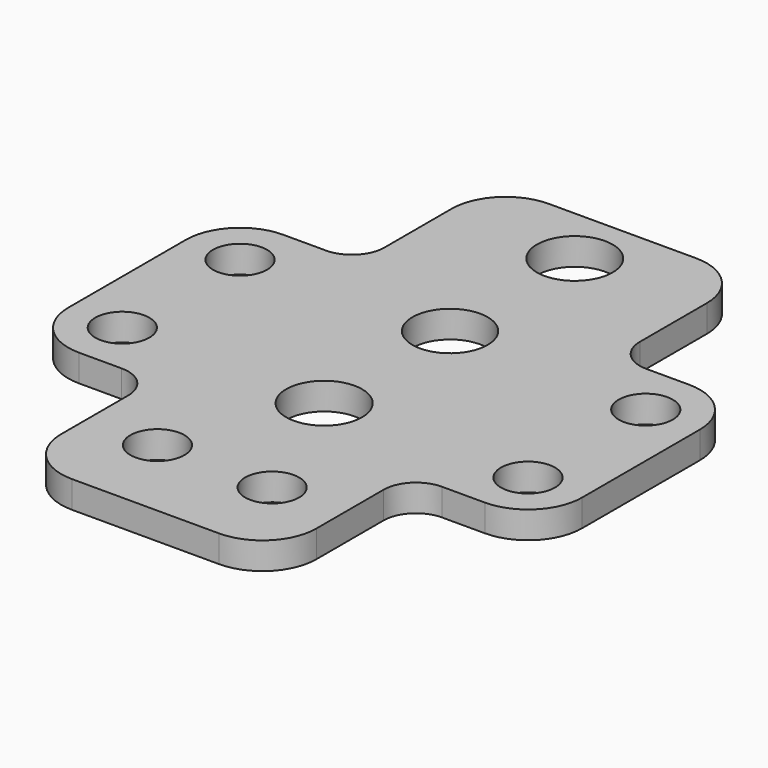
from build123d import *

# Parameters (mm, degrees)
F0_R     = 3.175
F0_R_2   = 4.458177
F0_R_3   = 4.445
F0_R_4   = 4.417405
F1_DEPTH = 3.175


with BuildPart() as f1:
    # F0 (on Top) → F1 (new body)
    with BuildSketch(Plane.XY):
        with BuildLine():
            Line((11.363681, 0), (6.35, 0))
            ThreePointArc((6.35, 0), (1.859872, -1.859872), (0, -6.35))
            Line((0, -6.35), (0, -23.622))
            ThreePointArc((0, -23.622), (1.859872, -28.112128), (6.35, -29.972))
            Line((6.35, -29.972), (11.363681, -29.972))
            ThreePointArc((11.363681, -29.972), (14.057757, -31.087923), (15.173681, -33.782))
            Line((15.173681, -33.782), (15.173681, -43.62196))
            ThreePointArc((15.173681, -43.62196), (17.033553, -48.112088), (21.523681, -49.97196))
            Line((21.523681, -49.97196), (38.795681, -49.97196))
            ThreePointArc((38.795681, -49.97196), (43.285809, -48.112088), (45.145681, -43.62196))
            Line((45.145681, -43.62196), (45.145681, -33.782))
            ThreePointArc((45.145681, -33.782), (46.261604, -31.087923), (48.955681, -29.972))
            Line((48.955681, -29.972), (53.975, -29.972))
            ThreePointArc((53.975, -29.972), (58.465128, -28.112128), (60.325, -23.622))
            Line((60.325, -23.622), (60.325, -6.35))
            ThreePointArc((60.325, -6.35), (58.465128, -1.859872), (53.975, 0))
            Line((53.975, 0), (48.955681, 0))
            ThreePointArc((48.955681, 0), (46.261604, 1.115923), (45.145681, 3.81))
            Line((45.145681, 3.81), (45.145681, 13.64996))
            ThreePointArc((45.145681, 13.64996), (43.285809, 18.140088), (38.795681, 19.99996))
            Line((38.795681, 19.99996), (21.523681, 19.99996))
            ThreePointArc((21.523681, 19.99996), (17.033553, 18.140088), (15.173681, 13.64996))
            Line((15.173681, 13.64996), (15.173681, 3.81))
            ThreePointArc((15.173681, 3.81), (14.057757, 1.115923), (11.363681, 0))
        make_face()
        with Locations((23.428681, -39.81196)):
            Circle(F0_R, mode=Mode.SUBTRACT)
        with Locations((6.35, -23.622)):
            Circle(F0_R, mode=Mode.SUBTRACT)
        with Locations((36.890681, -39.81196)):
            Circle(F0_R, mode=Mode.SUBTRACT)
        with Locations((30.1625, -23.772801)):
            Circle(F0_R_2, mode=Mode.SUBTRACT)
        with Locations((53.975, -23.622)):
            Circle(F0_R, mode=Mode.SUBTRACT)
        with Locations((6.35, -6.35)):
            Circle(F0_R, mode=Mode.SUBTRACT)
        with Locations((30.154353, 13.01496)):
            Circle(F0_R_3, mode=Mode.SUBTRACT)
        with Locations((30.222908, -5.372317)):
            Circle(F0_R_4, mode=Mode.SUBTRACT)
        with Locations((53.975, -6.35)):
            Circle(F0_R, mode=Mode.SUBTRACT)
    extrude(amount=F1_DEPTH)


solid = f1.part
